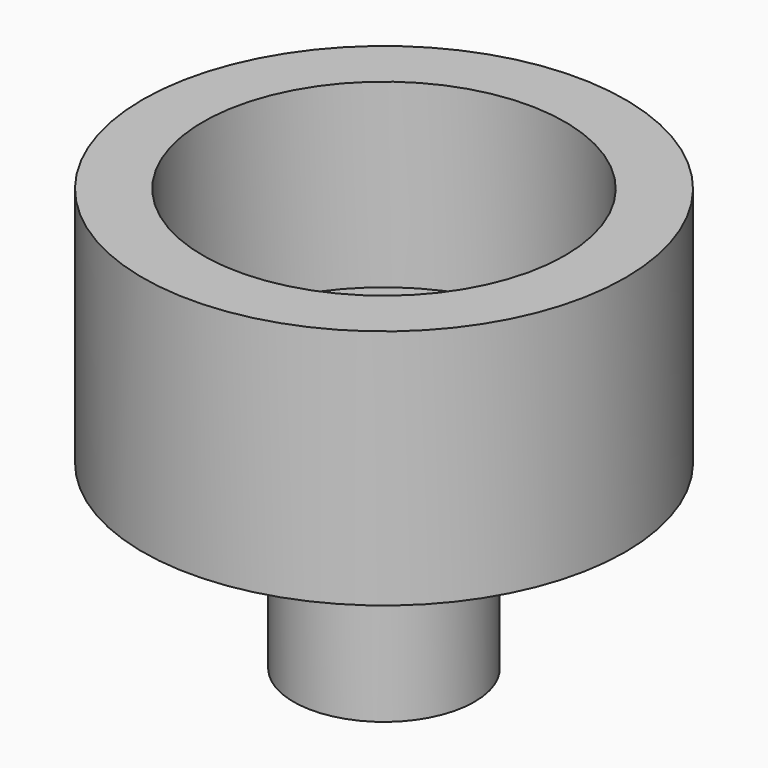
from build123d import *

# Parameters (mm, degrees)
F0_R     = 4
F1_DEPTH = 4
F2_R     = 1.5
F3_DEPTH = 3
F4_R     = 3
F5_DEPTH = 3
F6_R     = 1.15
F7_DEPTH = 25


with BuildPart() as f1:
    # F0 (on Top) → F1 (new body)
    with BuildSketch(Plane.XY):
        Circle(F0_R)
    extrude(amount=F1_DEPTH)

    # F2 (on face) → F3 (join)
    with BuildSketch(Plane(origin=(0, 0, 0), x_dir=(1, 0, 0), z_dir=(0, 0, -1))):
        Circle(F2_R)
    extrude(amount=F3_DEPTH)

    # F4 (on face) → F5 (cut)
    with BuildSketch(Plane.XY.offset(4)):
        Circle(F4_R)
    extrude(amount=-F5_DEPTH, mode=Mode.SUBTRACT)

    # F6 (on face) → F7 (cut)
    with BuildSketch(Plane(origin=(0, 0, -3), x_dir=(1, 0, 0), z_dir=(0, 0, -1))):
        Circle(F6_R)
    extrude(amount=-F7_DEPTH, mode=Mode.SUBTRACT)


solid = f1.part
